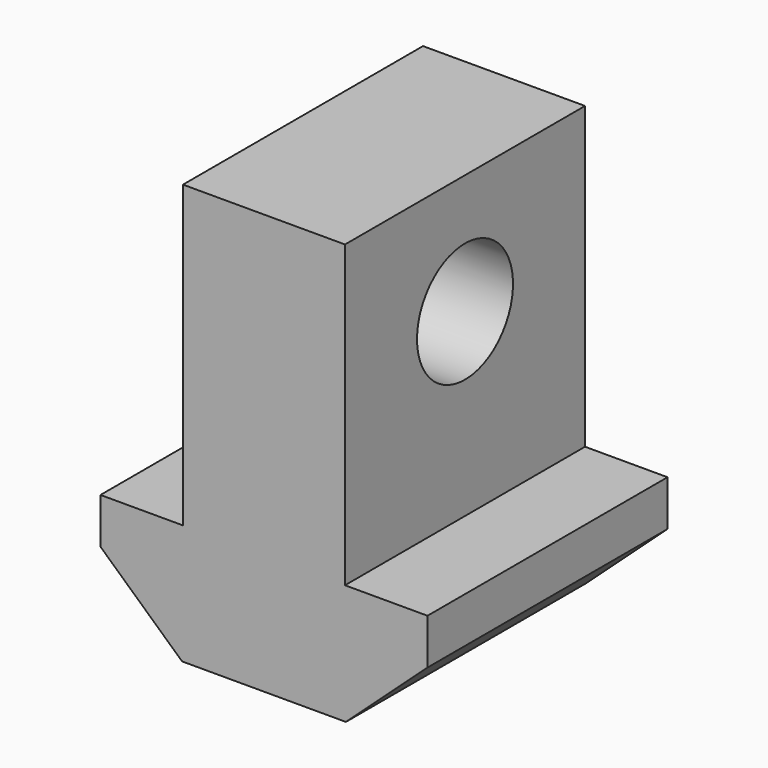
from build123d import *

# Parameters (mm, degrees)
F0_W     = 10
F0_H     = 6.09
F1_DEPTH = 10.9
F2_W     = 10.9
F2_H     = 2.09
F3_DEPTH = 25
F5_DEPTH = 12
F6_W     = 10
F6_H     = 2
F7_DEPTH = 25


with BuildPart() as f1:
    # F0 (on Right) → F1 (new body)
    with BuildSketch(Plane.YZ):
        with Locations((5, 3.045)):
            Rectangle(F0_W, F0_H)
    extrude(amount=F1_DEPTH)

    # F2 (on face) → F3 (cut)
    with BuildSketch(Plane.XZ):
        with Locations((5.45, 5.045)):
            Rectangle(F2_W, F2_H)
        Polygon((0, 0), (2.72, 0), (0, 2.48), align=None)
        Polygon((8.18, 0), (10.9, 0), (10.9, 2.48), align=None)
    extrude(amount=-F3_DEPTH, mode=Mode.SUBTRACT)

    # F4 (on face) → F5 (join)
    with BuildSketch(Plane.XY.offset(4)):
        Polygon((8.15, 10), (5.45, 10), (2.75, 10), (2.75, 0), (8.15, 0), align=None)
    extrude(amount=F5_DEPTH)

    # F6 (on face) → F7 (cut)
    with BuildSketch(Plane.YZ.offset(8.15)):
        with BuildLine():
            Line((3, 10), (7, 10))
            ThreePointArc((7, 10), (5, 12), (3, 10))
        make_face()
        with BuildLine():
            ThreePointArc((3, 10), (5, 8), (7, 10))
            Line((7, 10), (3, 10))
        make_face()
        with Locations((5, 15)):
            Rectangle(F6_W, F6_H)
    extrude(amount=-F7_DEPTH, mode=Mode.SUBTRACT)


solid = f1.part
